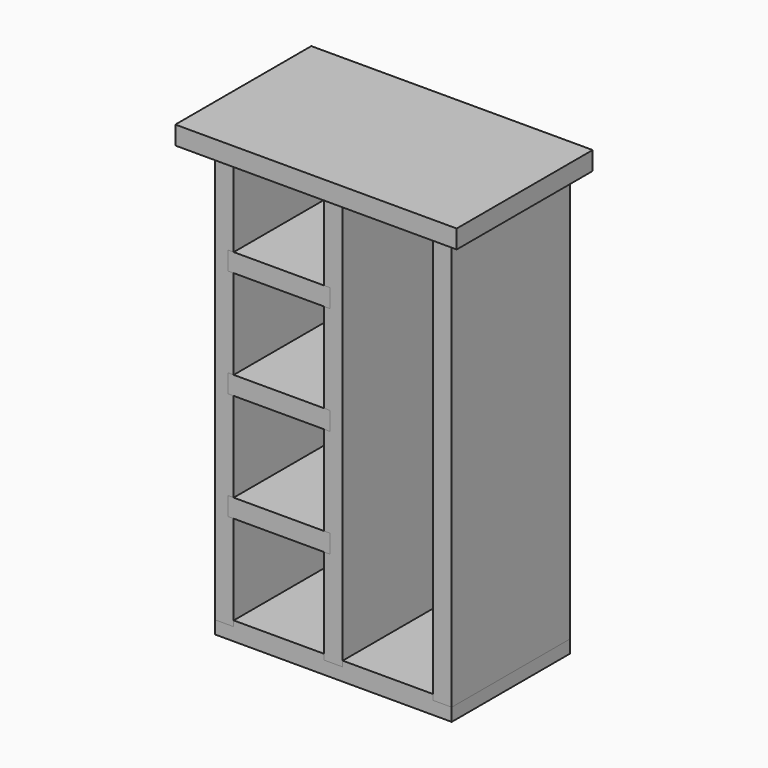
from build123d import *

# Parameters (mm, degrees)
F0_W     = 15.875
F0_H     = 4.7625
F1_DEPTH = 127
F2_DEPTH = 127
F3_W     = 87.3125
F3_H     = 15.875
F4_DEPTH = 127
F6_DEPTH = 146.05


with BuildPart() as f1:
    # F0 (on Front) → F1 (new body)
    with BuildSketch(Plane.XZ):
        Polygon((-43.016921, 228.390501), (-58.891921, 228.390846), (-58.891921, -127.209154), (-58.891921, -131.971654), (-43.016921, -131.971654), (-43.016921, -127.209154), (-43.016921, -50.21549), (-47.779421, -50.21549), (-47.779421, -34.34049), (-43.016921, -34.34049), (-43.016921, 42.653173), (-47.779421, 42.653173), (-47.779421, 58.528173), (-43.016921, 58.528173), (-43.016921, 135.521837), (-47.779421, 135.521837), (-47.779421, 151.396837), (-43.016921, 151.396837), align=None)
        Polygon((34.770579, -50.215491), (34.770579, -127.209154), (34.770579, -131.971654), (50.645579, -131.971654), (50.645579, -127.209154), (50.645579, 228.390501), (34.770579, 228.390501), (34.770579, 151.396837), (39.533079, 151.396837), (39.533079, 135.521837), (34.770579, 135.521837), (34.770579, 58.528173), (39.533079, 58.528173), (39.533079, 42.653173), (34.770579, 42.653173), (34.770579, -34.340491), (39.533079, -34.340491), (39.533079, -50.215491), align=None)
        Polygon((128.433079, -131.971654), (144.308079, -131.971654), (144.308079, -127.209154), (144.308079, 228.390501), (128.433079, 228.390501), (128.433079, -127.209154), align=None)
        Polygon((-58.949242, 233.153001), (-58.891921, 228.390846), (-43.016921, 228.390501), (-43.016817, 233.153001), align=None)
        with Locations((42.708079, 230.771751)):
            Rectangle(F0_W, F0_H)
        with Locations((136.370579, 230.771751)):
            Rectangle(F0_W, F0_H)
    extrude(amount=F1_DEPTH)


with BuildPart() as f2:
    # F0 (on Front) → F2 (new body)
    with BuildSketch(Plane.XZ):
        Polygon((-43.016921, -131.971654), (-58.891921, -131.971654), (-58.891921, -143.084154), (144.308079, -143.084154), (144.308079, -131.971654), (128.433079, -131.971654), (128.433079, -127.209154), (50.645579, -127.209154), (50.645579, -131.971654), (34.770579, -131.971654), (34.770579, -127.209154), (-43.016921, -127.209154), align=None)
    extrude(amount=F2_DEPTH)


with BuildPart() as f4:
    # F3 (on Front) → F4 (new body)
    with BuildSketch(Plane.XZ):
        with Locations((-4.123171, 143.459337)):
            Rectangle(F3_W, F3_H)
        with Locations((-4.123171, 50.590673)):
            Rectangle(F3_W, F3_H)
        with Locations((-4.123171, -42.27799)):
            Rectangle(F3_W, F3_H)
    extrude(amount=F4_DEPTH)


with BuildPart() as f6:
    # F5 (on face) → F6 (new body)
    with BuildSketch(Plane.XZ):
        Polygon((-58.891921, 228.390846), (144.785458, 228.390846), (163.835458, 228.390846), (163.835458, 244.265846), (-77.941921, 244.265846), (-77.941921, 228.390846), align=None)
    extrude(amount=F6_DEPTH)

    # F7: cut F1
    add(f1.part, mode=Mode.SUBTRACT)


solid = Compound([f1.part, f2.part, f4.part, f6.part])
